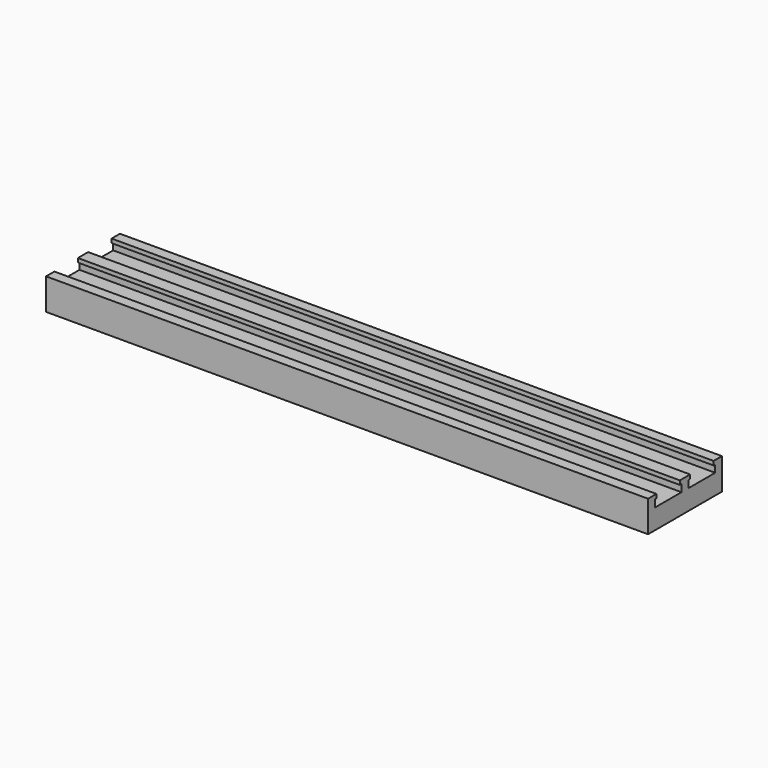
from build123d import *

# Parameters (mm, degrees)
BOX017_W          = 150
BOX017_H          = 7.3
BOX017_DEPTH      = 1
BOX018_W          = 150
BOX018_H          = 7.3
BOX018_DEPTH      = 1
BOX016_W          = 150
BOX016_H          = 8.3
BOX016_DEPTH      = 1.8
BOX015_W          = 150
BOX015_H          = 8.3
BOX015_DEPTH      = 1.8
BOX014_W          = 150
BOX014_H          = 23
BOX014_DEPTH      = 2.8
CYLINDER006_R     = 3
CYLINDER006_DEPTH = 2.5
CYLINDER005_R     = 3
CYLINDER005_DEPTH = 2.5
CYLINDER007_R     = 3
CYLINDER007_DEPTH = 2.5
CYLINDER004_R     = 3
CYLINDER004_DEPTH = 2.5
BOX001_W          = 150
BOX001_H          = 23
BOX001_DEPTH      = 5


with BuildPart() as box017:
    # Box017 → Box017 (new body)
    with BuildSketch(Plane(origin=(0, 2.6, 10.8), x_dir=(1, 0, 0), z_dir=(0, 0, 1))):
        with Locations((75, 3.65)):
            Rectangle(BOX017_W, BOX017_H)
    extrude(amount=BOX017_DEPTH)


with BuildPart() as box018:
    # Box018 → Box018 (new body)
    with BuildSketch(Plane(origin=(0, 13.1, 10.8), x_dir=(1, 0, 0), z_dir=(0, 0, 1))):
        with Locations((75, 3.65)):
            Rectangle(BOX018_W, BOX018_H)
    extrude(amount=BOX018_DEPTH)


with BuildPart() as box016:
    # Box016 → Box016 (new body)
    with BuildSketch(Plane(origin=(0, 12.6, 9), x_dir=(1, 0, 0), z_dir=(0, 0, 1))):
        with Locations((75, 4.15)):
            Rectangle(BOX016_W, BOX016_H)
    extrude(amount=BOX016_DEPTH)


with BuildPart() as fusion006:
    # Box015 → Box015 (new body)
    with BuildSketch(Plane(origin=(0, 2.1, 9), x_dir=(1, 0, 0), z_dir=(0, 0, 1))):
        with Locations((75, 4.15)):
            Rectangle(BOX015_W, BOX015_H)
    extrude(amount=BOX015_DEPTH)

    # Fusion006: union Box017, Box018, Box016
    add(box017.part)
    add(box018.part)
    add(box016.part)


with BuildPart() as f_2x_8mm_tape:
    # Box014 → Box014 (new body)
    with BuildSketch(Plane.XY.offset(9)):
        with Locations((75, 11.5)):
            Rectangle(BOX014_W, BOX014_H)
    extrude(amount=BOX014_DEPTH)

    # Cut006: cut Fusion006
    add(fusion006.part, mode=Mode.SUBTRACT)


with BuildPart() as f_2x_8mm_tape_1:
    # Cut006 placement: moved
    add(f_2x_8mm_tape.part.moved(Location((0, 0, -1))))


with BuildPart() as cone002:
    # Cone002 → Cone002 (revolve)
    with BuildSketch(Plane(origin=(40, 11.5, 3), x_dir=(1, 0, 0), z_dir=(0, -1, 0))):
        Polygon((0, 0), (5.1, 0), (1.1, 4.1), (0, 4.1), align=None)
    revolve(axis=Axis((40, 11.5, 3), (0, 0, 1)))


with BuildPart() as cone003:
    # Cone003 → Cone003 (revolve)
    with BuildSketch(Plane(origin=(110, 11.5, 3), x_dir=(1, 0, 0), z_dir=(0, -1, 0))):
        Polygon((0, 0), (5.1, 0), (1.1, 4.1), (0, 4.1), align=None)
    revolve(axis=Axis((110, 11.5, 3), (0, 0, 1)))


with BuildPart() as cylinder006:
    # Cylinder006 → Cylinder006 (new body)
    with BuildSketch(Plane(origin=(24, 11.5, 3), x_dir=(1, 0, 0), z_dir=(0, 0, 1))):
        Circle(CYLINDER006_R)
    extrude(amount=CYLINDER006_DEPTH)


with BuildPart() as cylinder005:
    # Cylinder005 → Cylinder005 (new body)
    with BuildSketch(Plane(origin=(126, 11.5, 3), x_dir=(1, 0, 0), z_dir=(0, 0, 1))):
        Circle(CYLINDER005_R)
    extrude(amount=CYLINDER005_DEPTH)


with BuildPart() as cylinder007:
    # Cylinder007 → Cylinder007 (new body)
    with BuildSketch(Plane(origin=(134, 11.5, 3), x_dir=(1, 0, 0), z_dir=(0, 0, 1))):
        Circle(CYLINDER007_R)
    extrude(amount=CYLINDER007_DEPTH)


with BuildPart() as removals:
    # Cylinder004 → Cylinder004 (new body)
    with BuildSketch(Plane(origin=(16, 11.5, 3), x_dir=(1, 0, 0), z_dir=(0, 0, 1))):
        Circle(CYLINDER004_R)
    extrude(amount=CYLINDER004_DEPTH)

    # Fusion002: union Cone002, Cone003, Cylinder006, Cylinder005, Cylinder007
    add(cone002.part)
    add(cone003.part)
    add(cylinder006.part)
    add(cylinder005.part)
    add(cylinder007.part)


with BuildPart() as top_2x_8mm:
    # Box001 → Box001 (new body)
    with BuildSketch(Plane.XY.offset(3)):
        with Locations((75, 11.5)):
            Rectangle(BOX001_W, BOX001_H)
    extrude(amount=BOX001_DEPTH)

    # Cut001: cut removals
    add(removals.part, mode=Mode.SUBTRACT)

    # Fusion009: union 2X_8mm_tape
    add(f_2x_8mm_tape_1.part)


solid = top_2x_8mm.part
